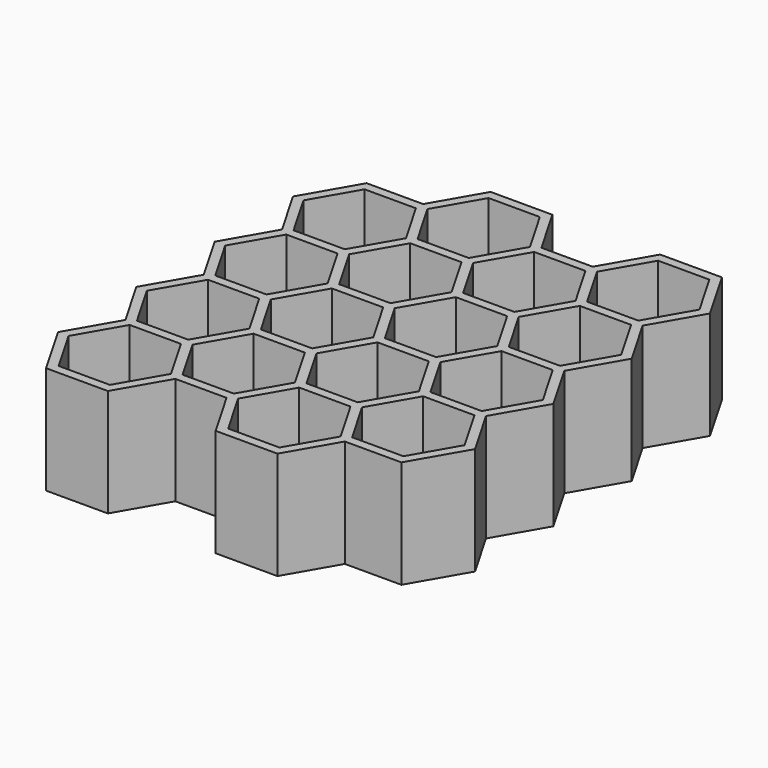
from build123d import *

# Parameters (mm, degrees)
F1_DEPTH = 21.6916
F3_DEPTH = 2


with BuildPart() as f1:
    # F0 (on Top) → F1 (new body)
    with BuildSketch(Plane.XY):
        Polygon((31.633887, 76.3081), (25.42258, 87.0664), (11.845265, 87.0664), (5.633957, 76.3081), (-6.788658, 76.3081), (-13.577315, 64.5498), (-7.366008, 53.7915), (-13.577315, 43.0332), (-7.366008, 32.2749), (-13.577315, 21.5166), (-7.366008, 10.7583), (-13.577315, 0), (-6.788658, -11.7583), (6.788658, -11.7583), (12.999965, -1), (24.267879, -1), (30.479187, -11.7583), (44.056502, -11.7583), (50.267809, -1), (62.690424, -1), (69.479082, 10.7583), (63.267775, 21.5166), (69.479082, 32.2749), (63.267775, 43.0332), (69.479082, 53.7915), (63.267775, 64.5498), (69.479082, 75.3081), (62.690424, 87.0664), (49.113109, 87.0664), (42.901802, 76.3081), align=None)
        Polygon((-5.633957, 9.7583), (5.633957, 9.7583), (11.267914, 0), (5.633957, -9.7583), (-5.633957, -9.7583), (-11.267914, 0), align=None, mode=Mode.SUBTRACT)
        Polygon((12.999965, 20.5166), (24.267879, 20.5166), (29.901836, 10.7583), (24.267879, 1), (12.999965, 1), (7.366008, 10.7583), align=None, mode=Mode.SUBTRACT)
        Polygon((11.267914, 21.5166), (5.633957, 11.7583), (-5.633957, 11.7583), (-11.267914, 21.5166), (-5.633957, 31.2749), (5.633957, 31.2749), align=None, mode=Mode.SUBTRACT)
        Polygon((24.267879, 22.5166), (12.999965, 22.5166), (7.366008, 32.2749), (12.999965, 42.0332), (24.267879, 42.0332), (29.901836, 32.2749), align=None, mode=Mode.SUBTRACT)
        Polygon((48.535759, 0), (42.901802, -9.7583), (31.633887, -9.7583), (25.99993, 0), (31.633887, 9.7583), (42.901802, 9.7583), align=None, mode=Mode.SUBTRACT)
        Polygon((61.535724, 1), (50.267809, 1), (44.633852, 10.7583), (50.267809, 20.5166), (61.535724, 20.5166), (67.169681, 10.7583), align=None, mode=Mode.SUBTRACT)
        Polygon((25.99993, 21.5166), (31.633887, 31.2749), (42.901802, 31.2749), (48.535759, 21.5166), (42.901802, 11.7583), (31.633887, 11.7583), align=None, mode=Mode.SUBTRACT)
        Polygon((67.169681, 32.2749), (61.535724, 22.5166), (50.267809, 22.5166), (44.633852, 32.2749), (50.267809, 42.0332), (61.535724, 42.0332), align=None, mode=Mode.SUBTRACT)
        Polygon((11.267914, 43.0332), (5.633957, 33.2749), (-5.633957, 33.2749), (-11.267914, 43.0332), (-5.633957, 52.7915), (5.633957, 52.7915), align=None, mode=Mode.SUBTRACT)
        Polygon((24.267879, 44.0332), (12.999965, 44.0332), (7.366008, 53.7915), (12.999965, 63.5498), (24.267879, 63.5498), (29.901836, 53.7915), align=None, mode=Mode.SUBTRACT)
        Polygon((11.267914, 64.5498), (5.633957, 54.7915), (-5.633957, 54.7915), (-11.267914, 64.5498), (-5.633957, 74.3081), (5.633957, 74.3081), align=None, mode=Mode.SUBTRACT)
        Polygon((24.267879, 65.5498), (12.999965, 65.5498), (7.366008, 75.3081), (12.999965, 85.0664), (24.267879, 85.0664), (29.901836, 75.3081), align=None, mode=Mode.SUBTRACT)
        Polygon((25.99993, 43.0332), (31.633887, 52.7915), (42.901802, 52.7915), (48.535759, 43.0332), (42.901802, 33.2749), (31.633887, 33.2749), align=None, mode=Mode.SUBTRACT)
        Polygon((50.267809, 63.5498), (61.535724, 63.5498), (67.169681, 53.7915), (61.535724, 44.0332), (50.267809, 44.0332), (44.633852, 53.7915), align=None, mode=Mode.SUBTRACT)
        Polygon((31.633887, 54.7915), (25.99993, 64.5498), (31.633887, 74.3081), (42.901802, 74.3081), (48.535759, 64.5498), (42.901802, 54.7915), align=None, mode=Mode.SUBTRACT)
        Polygon((44.633852, 75.3081), (50.267809, 85.0664), (61.535724, 85.0664), (67.169681, 75.3081), (61.535724, 65.5498), (50.267809, 65.5498), align=None, mode=Mode.SUBTRACT)
    extrude(amount=F1_DEPTH)

    # F2 (on face) → F3 (join)
    with BuildSketch(Plane(origin=(0, 0, 0), x_dir=(1, 0, 0), z_dir=(0, 0, -1))):
        Polygon((49.113109, -87.0664), (62.690424, -87.0664), (69.479082, -75.3081), (63.267775, -64.5498), (69.479082, -53.7915), (63.267775, -43.0332), (69.479082, -32.2749), (63.267775, -21.5166), (69.479082, -10.7583), (62.690424, 1), (50.267809, 1), (44.056502, 11.7583), (30.479187, 11.7583), (24.267879, 1), (12.999965, 1), (6.788658, 11.7583), (-6.788658, 11.7583), (-13.577315, 0), (-7.366008, -10.7583), (-13.577315, -21.5166), (-7.366008, -32.2749), (-13.577315, -43.0332), (-7.366008, -53.7915), (-13.577315, -64.5498), (-6.788658, -76.3081), (5.633957, -76.3081), (11.845265, -87.0664), (25.42258, -87.0664), (31.633887, -76.3081), (42.901802, -76.3081), align=None)
    extrude(amount=F3_DEPTH)


solid = f1.part
